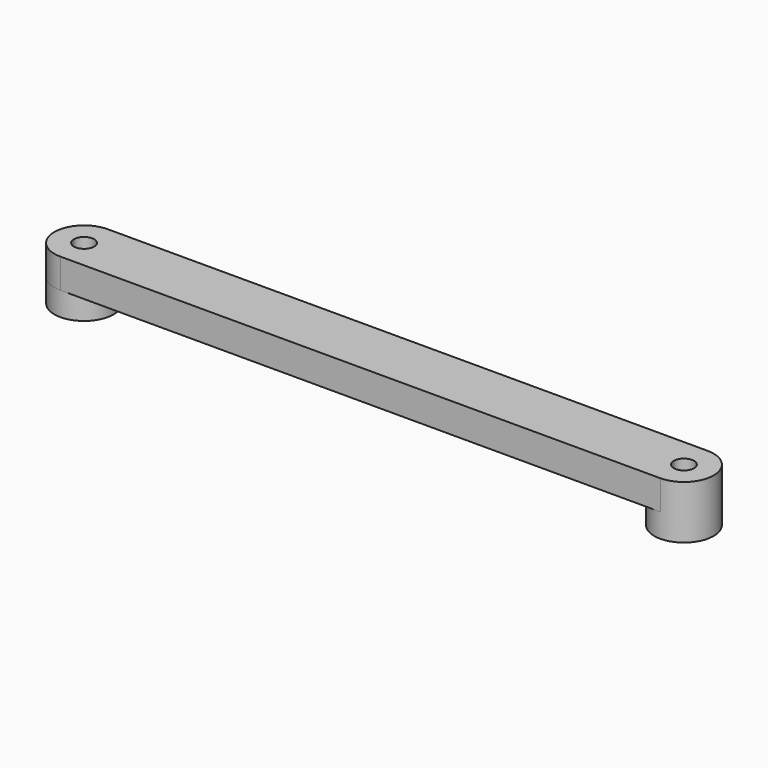
from build123d import *

# Parameters (mm, degrees)
F0_R     = 1.7
F1_DEPTH = 5
F2_R     = 5
F2_R_2   = 1.7
F3_DEPTH = 4


with BuildPart() as f1:
    # F0 (on Top) → F1 (new body)
    with BuildSketch(Plane.XY):
        with BuildLine():
            Line((-50.605015, -5), (50.605015, -5))
            ThreePointArc((50.605015, -5), (55.605015, 0), (50.605015, 5))
            Line((50.605015, 5), (-50.605015, 5))
            ThreePointArc((-50.605015, 5), (-55.605015, 0), (-50.605015, -5))
        make_face()
        with Locations((-50.605015, 0)):
            Circle(F0_R, mode=Mode.SUBTRACT)
        with Locations((50.605015, 0)):
            Circle(F0_R, mode=Mode.SUBTRACT)
    extrude(amount=F1_DEPTH)

    # F2 (on face) → F3 (join)
    with BuildSketch(Plane(origin=(0, 0, 0), x_dir=(1, 0, 0), z_dir=(0, 0, -1))):
        with Locations((-50.605015, 0)):
            Circle(F2_R)
        with Locations((-50.605015, 0)):
            Circle(F2_R_2, mode=Mode.SUBTRACT)
    extrude(amount=F3_DEPTH)

    # F4: F1 across plane


with BuildPart() as f1_1:
    add(f1.part)
    add(f1.part.mirror(Plane.YZ))


solid = f1_1.part
